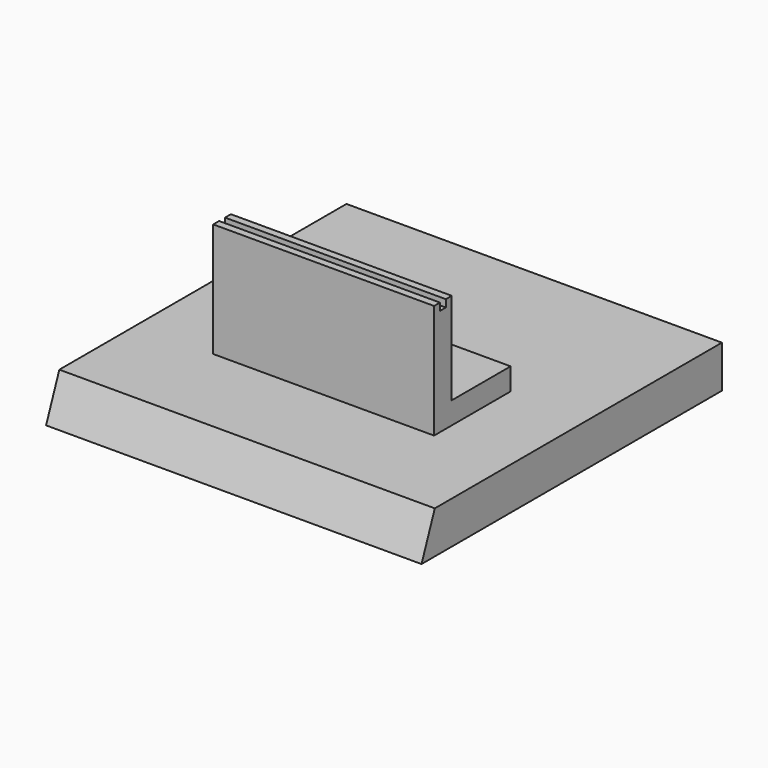
from build123d import *

# Parameters (mm, degrees)
F1_DEPTH = 102
F2_DEPTH = 60


with BuildPart() as f1:
    # F0 (on Right) → F1 (new body, symmetric)
    with BuildSketch(Plane.YZ):
        Polygon((9, 23), (0, 0), (204, 0), (204, 23), (113, 23), (61, 23), align=None)
    extrude(amount=F1_DEPTH, both=True)

    # F0 (on Right) → F2 (join, symmetric)
    with BuildSketch(Plane.YZ):
        Polygon((61, 85), (61, 23), (113, 23), (113, 35), (73, 35), (73, 85), (69, 85), (69, 81), (65, 81), (65, 85), align=None)
    extrude(amount=F2_DEPTH, both=True)


solid = f1.part
